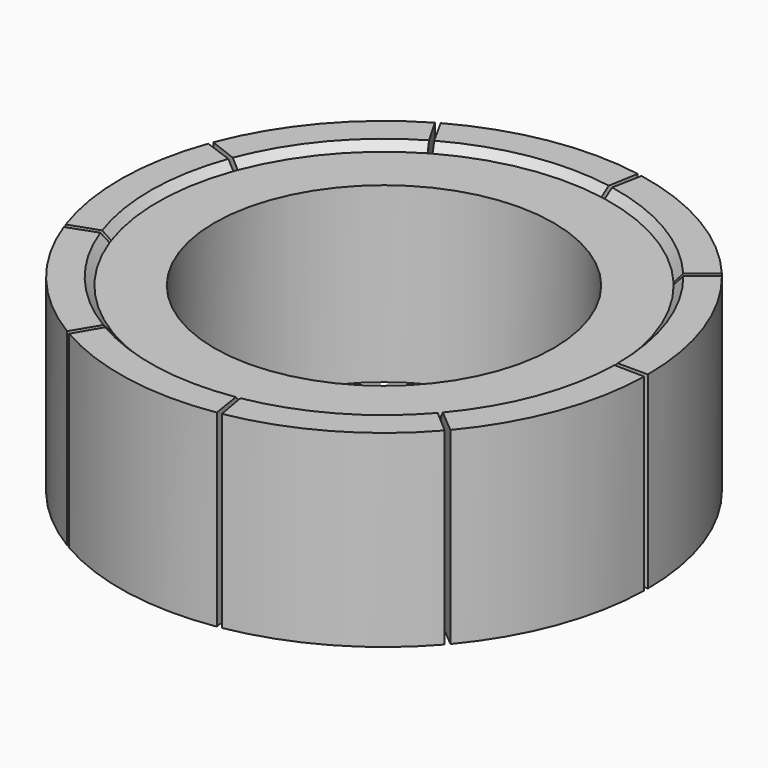
from build123d import *

# Parameters (mm, degrees)
CYLINDER007_R     = 4.5
CYLINDER007_DEPTH = 4.6
CYLINDER006_R     = 6
CYLINDER006_DEPTH = 4.6
CYLINDER005_W     = 6
CYLINDER005_H     = 5
CYLINDER005_ANGLE = 39
CYLINDER004_W     = 7
CYLINDER004_H     = 5
CYLINDER004_ANGLE = 39
CHAMFER005_SIZE   = 0.2
ARRAY_COUNT       = 9


with BuildPart() as cilindro005:
    # Cylinder007 → Cylinder007 (new body)
    with BuildSketch(Plane.XY.offset(0.2)):
        Circle(CYLINDER007_R)
    extrude(amount=CYLINDER007_DEPTH)


with BuildPart() as cut003:
    # Cylinder006 → Cylinder006 (new body)
    with BuildSketch(Plane.XY.offset(0.2)):
        Circle(CYLINDER006_R)
    extrude(amount=CYLINDER006_DEPTH)

    # Cut003: cut Cilindro005
    add(cilindro005.part, mode=Mode.SUBTRACT)


with BuildPart() as cilindro003:
    # Cylinder005 → Cylinder005 (revolve)
    with BuildSketch(Plane.XZ):
        with Locations((3, 2.5)):
            Rectangle(CYLINDER005_W, CYLINDER005_H)
    revolve(axis=Axis((0, 0, 0), (0, 0, 1)), revolution_arc=CYLINDER005_ANGLE)


with BuildPart() as obj1:
    # Cylinder004 → Cylinder004 (revolve)
    with BuildSketch(Plane.XZ):
        with Locations((3.5, 2.5)):
            Rectangle(CYLINDER004_W, CYLINDER004_H)
    revolve(axis=Axis((0, 0, 0), (0, 0, 1)), revolution_arc=CYLINDER004_ANGLE)

    # Cut002: cut Cilindro003
    add(cilindro003.part, mode=Mode.SUBTRACT)

    # Chamfer005
    chamfer005_edges = [obj1.edges().sort_by_distance(p)[0] for p in [
        (5.655849, 2.002841, 5),
        (5.655849, 2.002841, 0),
    ]]
    chamfer(chamfer005_edges, length=CHAMFER005_SIZE)

    # Array: obj1 ×9 about axis
    array_axis = Axis((0, 0, 0), (0, 0, 1))


with BuildPart() as obj1_1:
    add(obj1.part)
    for i in range(1, ARRAY_COUNT):
        add(obj1.part.rotate(array_axis, i * 360 / ARRAY_COUNT))

    # Fusion: union Cut003
    add(cut003.part)


solid = obj1_1.part
